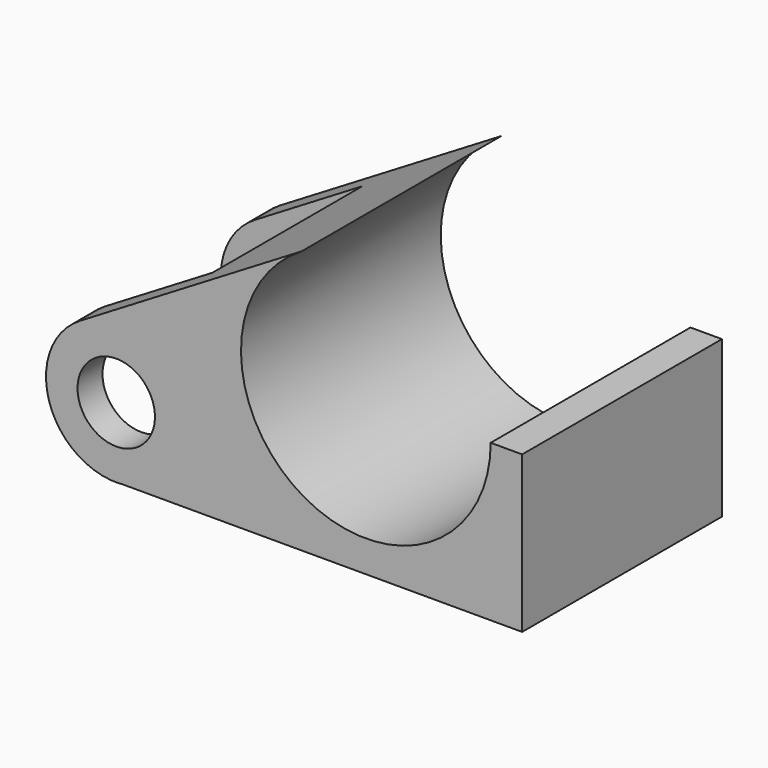
from build123d import *

# Parameters (mm, degrees)
F1_DEPTH      = 12.7
F1_DEPTH_BACK = 12.7
F2_R          = 3.937
F3_DEPTH      = 25.401
F5_W          = 25.4239097328
F5_H          = 19.05
F6_DEPTH      = 20.9247035883
F6_DEPTH_BACK = 20.2536193136


with BuildPart() as f1:
    # F0 (on Front) → F1 (new body, two sides)
    with BuildSketch(Plane.XZ) as f1_sk:
        with BuildLine():
            Line((622.2402070197, 68.0433236969), (599.7125589726, 54.4963749958))
            ThreePointArc((599.7125589726, 54.4963749958), (596.4317742001, 46.7743526151), (602.7544880205, 41.259239895))
            Line((602.7544880205, 41.259239895), (604.0336175771, 41.259239895))
            Line((604.0336175771, 41.259239895), (628.785084933, 41.259239895))
            Line((628.785084933, 41.259239895), (644.685484933, 41.259239895))
            Line((644.685484933, 41.259239895), (644.685484933, 57.159639895))
            Line((644.685484933, 57.159639895), (641.485084933, 57.159639895))
            ThreePointArc((641.485084933, 57.159639895), (622.5332831727, 46.1050040009), (622.2402070197, 68.0433236969))
        make_face()
        with BuildLine():
            Line((604.0336175771, 41.259239895), (602.7544880205, 41.259239895))
            ThreePointArc((602.7544880205, 41.259239895), (603.3940527988, 41.2305528572), (604.0336175771, 41.259239895))
        make_face()
    extrude(amount=F1_DEPTH)
    extrude(f1_sk.sketch, amount=-F1_DEPTH_BACK)

    # F2 (on face) → F3 (cut, through all)
    with BuildSketch(Plane(origin=(0, 12.7, 0), x_dir=(-1, 0, 0), z_dir=(0, 1, 0))):
        with Locations((-603.3940527988, 48.3743028572)):
            Circle(F2_R)
    extrude(amount=-F3_DEPTH, mode=Mode.SUBTRACT)

    # F5 (on face) → F6 (cut, two sides)
    with BuildSketch(Plane(origin=(49.5651934259, 0, -143.2513532049), x_dir=(0.9450305474, 0, 0.3269820552), z_dir=(0.3269820552, 0, -0.9450305474))) as f6_sk:
        with Locations((584.3355135098, 0)):
            Rectangle(F5_W, F5_H)
    extrude(amount=-F6_DEPTH, mode=Mode.SUBTRACT)
    extrude(f6_sk.sketch, amount=F6_DEPTH_BACK, mode=Mode.SUBTRACT)


solid = f1.part
